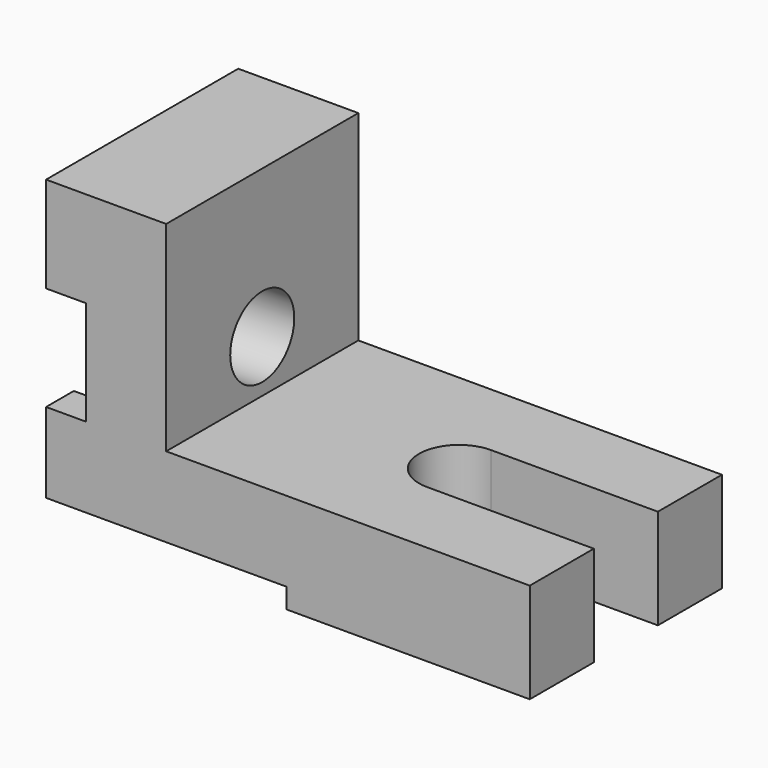
from build123d import *

# Parameters (mm, degrees)
F1_DEPTH = 72
F3_DEPTH = 30.001
F5_W     = 50
F5_H     = 6
F6_DEPTH = 72
F4_R     = 12
F7_DEPTH = 133.001
F8_DEPTH = 12.001


with BuildPart() as f1:
    # F0 (on Front) → F1 (new body)
    with BuildSketch(Plane.XZ):
        Polygon((-45.791163, 76.894684), (-81.791163, 76.894684), (-81.791163, 48.164527), (-69.791163, 48.164527), (-69.791163, 16.894684), (-81.791163, 16.894684), (-81.791163, -13.105316), (-9.791163, -13.105316), (63.208837, -13.105316), (63.208837, 16.894684), (-45.791163, 16.894684), align=None)
    extrude(amount=F1_DEPTH)

    # F2 (on face) → F3 (cut, through all)
    with BuildSketch(Plane.XY.offset(16.894684)):
        with BuildLine():
            Line((63.208837, -24), (13.208837, -24))
            ThreePointArc((13.208837, -24), (1.208837, -36), (13.208837, -48))
            Line((13.208837, -48), (63.208837, -48))
            Line((63.208837, -48), (63.208837, -24))
        make_face()
    extrude(amount=-F3_DEPTH, mode=Mode.SUBTRACT)

    # F5 (on face) → F6 (cut)
    with BuildSketch(Plane(origin=(-81.791163, 0, 0), x_dir=(0, -1, 0), z_dir=(-1, 0, 0))):
        with Locations((47, -10.105316)):
            Rectangle(F5_W, F5_H)
    extrude(amount=-F6_DEPTH, mode=Mode.SUBTRACT)

    # F4 (on face) → F7 (cut, through all)
    with BuildSketch(Plane(origin=(-69.791163, 0, 0), x_dir=(0, -1, 0), z_dir=(-1, 0, 0))):
        with Locations((36, 32.529606)):
            Circle(F4_R)
    extrude(amount=-F7_DEPTH, mode=Mode.SUBTRACT)

    # F4 (on face) → F8 (cut, through all)
    with BuildSketch(Plane(origin=(-69.791163, 0, 0), x_dir=(0, -1, 0), z_dir=(-1, 0, 0))):
        with Locations((36, 32.529606)):
            Circle(F4_R)
        with BuildLine():
            Line((61.603696, 16.894684), (10.396304, 16.894684))
            ThreePointArc((10.396304, 16.894684), (36, 2.529606), (61.603696, 16.894684))
        make_face()
        with BuildLine():
            Line((10.396304, 48.164527), (61.603696, 48.164527))
            ThreePointArc((61.603696, 48.164527), (36, 62.529606), (10.396304, 48.164527))
        make_face()
    extrude(amount=F8_DEPTH, mode=Mode.SUBTRACT)


solid = f1.part
